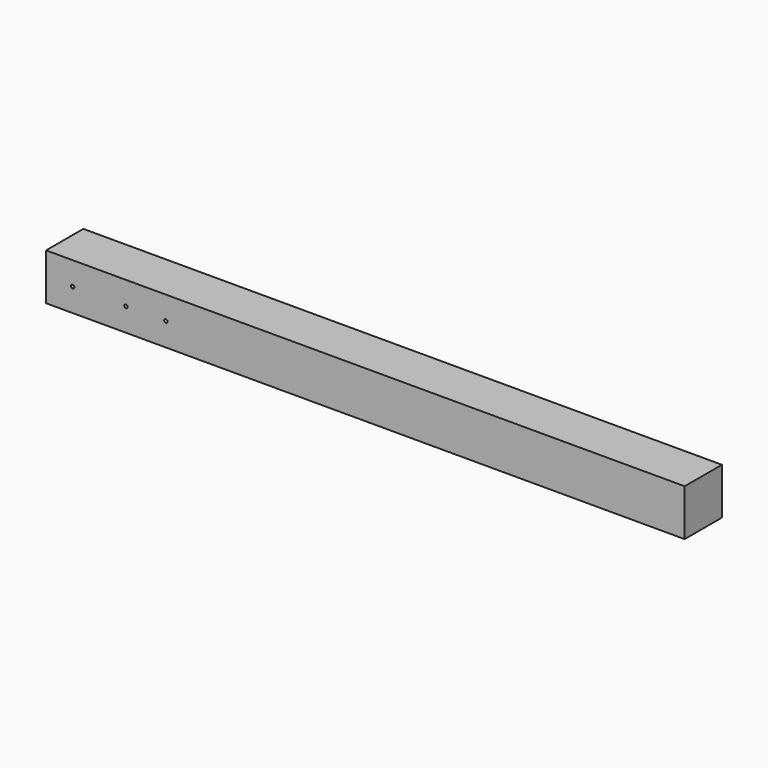
from build123d import *

# Parameters (mm, degrees)
F0_W     = 1219.2
F0_H     = 44.45
F1_DEPTH = 88.9
F2_W     = 1219.2
F2_H     = 44.45
F3_DEPTH = 88.9
F4_R     = 3.175
F5_DEPTH = 88.901


with BuildPart() as f1:
    # F0 (on Top) → F1 (new body)
    with BuildSketch(Plane.XY):
        with Locations((609.6, -22.225)):
            Rectangle(F0_W, F0_H)
    extrude(amount=F1_DEPTH)

    # F2 (on Top) → F3 (join)
    with BuildSketch(Plane.XY):
        with Locations((609.6, 22.225)):
            Rectangle(F2_W, F2_H)
    extrude(amount=F3_DEPTH)

    # F4 (on face) → F5 (cut, through all)
    with BuildSketch(Plane.XZ.offset(44.45)):
        with Locations((50.8, 44.45)):
            Circle(F4_R)
        with Locations((152.4, 44.45)):
            Circle(F4_R)
        with Locations((228.6, 44.45)):
            Circle(F4_R)
    extrude(amount=-F5_DEPTH, mode=Mode.SUBTRACT)


solid = f1.part
